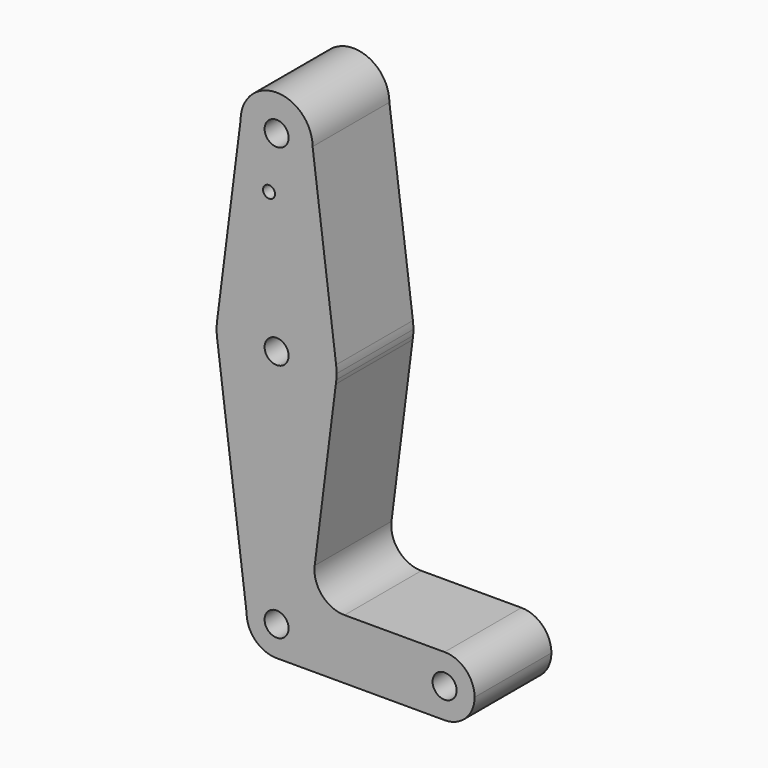
from build123d import *

# Parameters (mm, degrees)
F0_R     = 3.175
F0_R_2   = 1.5875
F1_DEPTH = 25.4


with BuildPart() as f1:
    # F0 (on Front) → F1 (new body)
    with BuildSketch(Plane.XZ):
        with BuildLine():
            ThreePointArc((44.45, -7.9375), (50.06266, -5.61266), (52.3875, 0))
            ThreePointArc((52.3875, 0), (50.06266, 5.61266), (44.45, 7.9375))
            ThreePointArc((44.45, 7.9375), (36.5125, 0), (44.45, -7.9375))
        make_face()
        with Locations((44.45, 0)):
            Circle(F0_R, mode=Mode.SUBTRACT)
        with BuildLine():
            ThreePointArc((44.45, -7.9375), (36.5125, 0), (44.45, 7.9375))
            Line((44.45, 7.9375), (17.967175, 7.9375))
            ThreePointArc((17.967175, 7.9375), (12.002232, 10.631738), (10.080201, 16.888355))
            Line((10.080201, 16.888355), (15.676557, 60.997766))
            ThreePointArc((15.676557, 60.997766), (0, 47.625), (-15.676557, 60.997766))
            Line((-15.676557, 60.997766), (-7.9375, 0))
            ThreePointArc((-7.9375, 0), (0, 7.9375), (7.9375, 0))
            ThreePointArc((7.9375, 0), (5.61266, -5.61266), (0, -7.9375))
            Line((0, -7.9375), (44.45, -7.9375))
        make_face()
        with BuildLine():
            ThreePointArc((-7.9375, 0), (-5.61266, -5.61266), (0, -7.9375))
            ThreePointArc((0, -7.9375), (5.61266, -5.61266), (7.9375, 0))
            ThreePointArc((7.9375, 0), (0, 7.9375), (-7.9375, 0))
        make_face()
        Circle(F0_R, mode=Mode.SUBTRACT)
        with BuildLine():
            Line((15.804738, 62.008062), (15.676557, 60.997766))
            ThreePointArc((15.676557, 60.997766), (15.748751, 61.501886), (15.804738, 62.008062))
        make_face()
        with BuildLine():
            ThreePointArc((-15.676557, 60.997766), (0, 47.625), (15.676557, 60.997766))
            Line((15.676557, 60.997766), (15.804738, 62.008062))
            ThreePointArc((15.804738, 62.008062), (15.857425, 62.753204), (15.875, 63.5))
            ThreePointArc((15.875, 63.5), (15.843082, 64.506168), (15.747457, 65.508289))
            ThreePointArc((15.747457, 65.508289), (0, 79.375), (-15.747457, 65.508289))
            ThreePointArc((-15.747457, 65.508289), (-15.872875, 63.75976), (-15.804738, 62.008062))
            Line((-15.804738, 62.008062), (-15.676557, 60.997766))
        make_face()
        with Locations((0, 63.5)):
            Circle(F0_R, mode=Mode.SUBTRACT)
        with BuildLine():
            ThreePointArc((-15.804738, 62.008062), (-15.748751, 61.501886), (-15.676557, 60.997766))
            Line((-15.676557, 60.997766), (-15.804738, 62.008062))
        make_face()
        with BuildLine():
            Line((-9.525, 114.3), (-15.747457, 65.508289))
            ThreePointArc((-15.747457, 65.508289), (0, 79.375), (15.747457, 65.508289))
            Line((15.747457, 65.508289), (9.525, 114.3))
            ThreePointArc((9.525, 114.3), (0, 104.775), (-9.525, 114.3))
        make_face()
        with Locations((-1.999434, 100.0252)):
            Circle(F0_R_2, mode=Mode.SUBTRACT)
        with BuildLine():
            ThreePointArc((9.525, 114.3), (0, 123.825), (-9.525, 114.3))
            ThreePointArc((-9.525, 114.3), (0, 104.775), (9.525, 114.3))
        make_face()
        with Locations((0, 114.3)):
            Circle(F0_R, mode=Mode.SUBTRACT)
        with BuildLine():
            ThreePointArc((44.45, -7.9375), (36.5125, 0), (44.45, 7.9375))
            Line((44.45, 7.9375), (17.967175, 7.9375))
            ThreePointArc((17.967175, 7.9375), (12.002232, 10.631738), (10.080201, 16.888355))
            Line((10.080201, 16.888355), (15.676557, 60.997766))
            ThreePointArc((15.676557, 60.997766), (0, 47.625), (-15.676557, 60.997766))
            Line((-15.676557, 60.997766), (-7.9375, 0))
            ThreePointArc((-7.9375, 0), (0, 7.9375), (7.9375, 0))
            ThreePointArc((7.9375, 0), (5.61266, -5.61266), (0, -7.9375))
            Line((0, -7.9375), (44.45, -7.9375))
        make_face()
    extrude(amount=F1_DEPTH)


solid = f1.part
